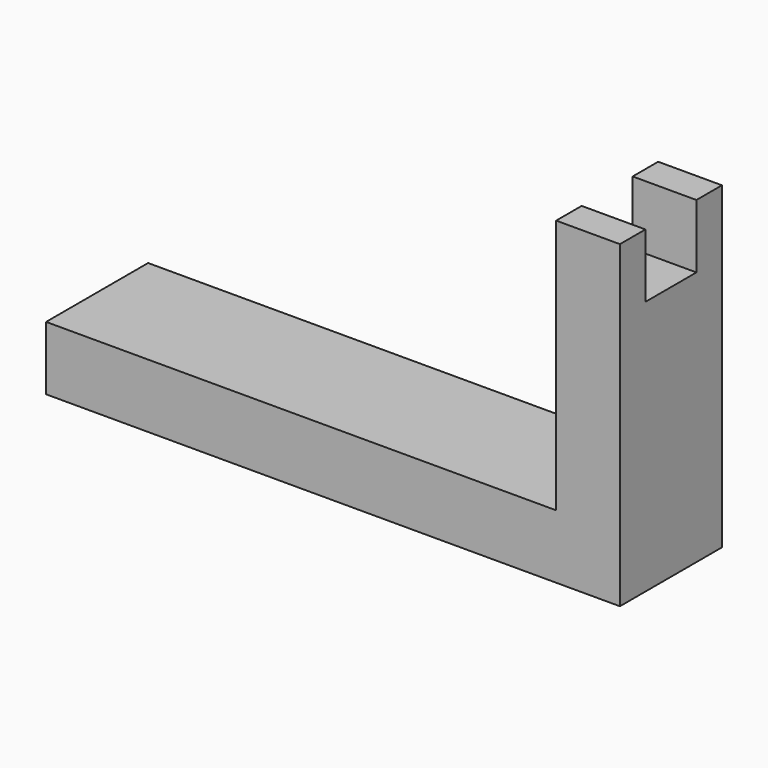
from build123d import *

# Parameters (mm, degrees)
BOX_W     = 20
BOX_H     = 10
BOX_DEPTH = 10
PAD_DEPTH = 20


with BuildPart() as cubo:
    # Box → Box (new body)
    with BuildSketch(Plane(origin=(76, 5, 40), x_dir=(1, 0, 0), z_dir=(0, 0, 1))):
        with Locations((10, 5)):
            Rectangle(BOX_W, BOX_H)
    extrude(amount=BOX_DEPTH)


with BuildPart() as cut001:
    # Sketch → Pad (new body)
    with BuildSketch(Plane.XZ):
        Polygon((0, 0), (90, 0), (90, 50), (80, 50), (80, 10), (0, 10), align=None)
    extrude(amount=PAD_DEPTH)


with BuildPart() as cut001_1:
    # Body placement: moved
    add(cut001.part.moved(Location((0, 20, 0))))

    # Cut001: cut Cubo
    add(cubo.part, mode=Mode.SUBTRACT)


solid = cut001_1.part
